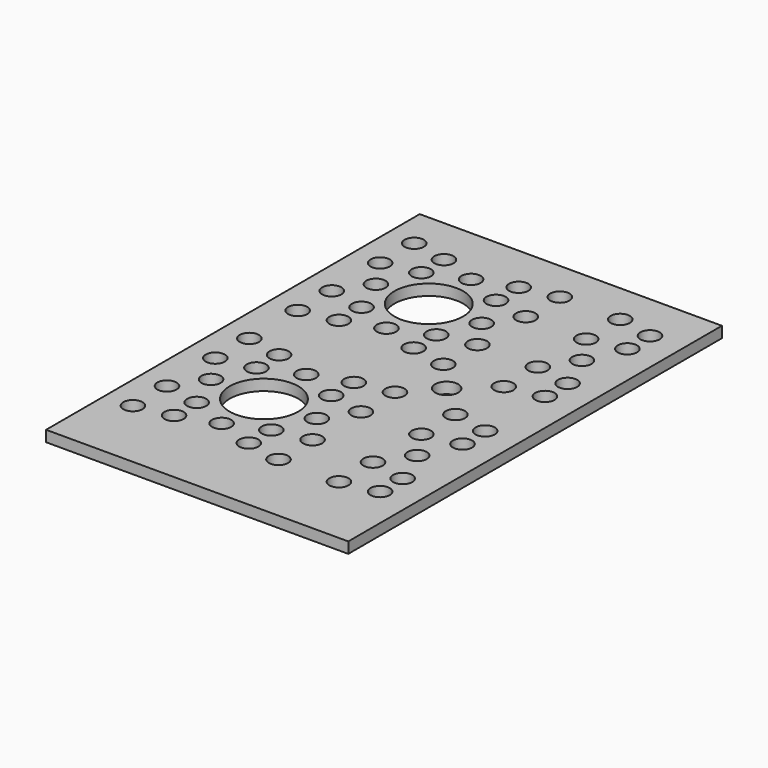
from build123d import *

# Parameters (mm, degrees)
F0_W     = 55.88
F0_H     = 86.36
F0_R     = 1.778
F0_R_2   = 6.35
F0_R_3   = 2.130313
F1_DEPTH = 2.032


with BuildPart() as f1:
    # F0 (on Top) → F1 (new body)
    with BuildSketch(Plane.XY):
        with Locations((27.94, 43.18)):
            Rectangle(F0_W, F0_H)
        with Locations((5.08, 13.716)):
            Circle(F0_R, mode=Mode.SUBTRACT)
        with Locations((11.6332, 15.0368)):
            Circle(F0_R, mode=Mode.SUBTRACT)
        with Locations((11.6332, 20.2692)):
            Circle(F0_R, mode=Mode.SUBTRACT)
        with Locations((18.542, 17.399)):
            Circle(F0_R, mode=Mode.SUBTRACT)
        with Locations((25.4508, 15.0368)):
            Circle(F0_R, mode=Mode.SUBTRACT)
        with Locations((25.4508, 20.2692)):
            Circle(F0_R, mode=Mode.SUBTRACT)
        with Locations((5.08, 21.59)):
            Circle(F0_R, mode=Mode.SUBTRACT)
        with Locations((8.763, 27.178)):
            Circle(F0_R, mode=Mode.SUBTRACT)
        with Locations((5.08, 32.766)):
            Circle(F0_R, mode=Mode.SUBTRACT)
        with Locations((5.08, 40.64)):
            Circle(F0_R, mode=Mode.SUBTRACT)
        with Locations((11.6332, 34.0868)):
            Circle(F0_R, mode=Mode.SUBTRACT)
        with Locations((11.6332, 39.3192)):
            Circle(F0_R, mode=Mode.SUBTRACT)
        with Locations((18.542, 27.178)):
            Circle(F0_R_2, mode=Mode.SUBTRACT)
        with Locations((18.542, 36.957)):
            Circle(F0_R, mode=Mode.SUBTRACT)
        with Locations((25.4508, 34.0868)):
            Circle(F0_R, mode=Mode.SUBTRACT)
        with Locations((25.4508, 39.3192)):
            Circle(F0_R, mode=Mode.SUBTRACT)
        with Locations((32.004, 13.716)):
            Circle(F0_R, mode=Mode.SUBTRACT)
        with Locations((43.18, 13.716)):
            Circle(F0_R, mode=Mode.SUBTRACT)
        with Locations((49.7332, 15.0368)):
            Circle(F0_R, mode=Mode.SUBTRACT)
        with Locations((49.7332, 20.2692)):
            Circle(F0_R, mode=Mode.SUBTRACT)
        with Locations((32.004, 21.59)):
            Circle(F0_R, mode=Mode.SUBTRACT)
        with Locations((28.321, 27.178)):
            Circle(F0_R, mode=Mode.SUBTRACT)
        with Locations((32.004, 32.766)):
            Circle(F0_R, mode=Mode.SUBTRACT)
        with Locations((32.004, 40.64)):
            Circle(F0_R, mode=Mode.SUBTRACT)
        with Locations((43.18, 21.59)):
            Circle(F0_R, mode=Mode.SUBTRACT)
        with Locations((46.863, 27.178)):
            Circle(F0_R, mode=Mode.SUBTRACT)
        with Locations((43.18, 32.766)):
            Circle(F0_R, mode=Mode.SUBTRACT)
        with Locations((43.18, 40.64)):
            Circle(F0_R, mode=Mode.SUBTRACT)
        with Locations((49.7332, 34.0868)):
            Circle(F0_R, mode=Mode.SUBTRACT)
        with Locations((49.7332, 39.3192)):
            Circle(F0_R, mode=Mode.SUBTRACT)
        with Locations((5.08, 51.816)):
            Circle(F0_R, mode=Mode.SUBTRACT)
        with Locations((11.6332, 53.1368)):
            Circle(F0_R, mode=Mode.SUBTRACT)
        with Locations((5.08, 59.69)):
            Circle(F0_R, mode=Mode.SUBTRACT)
        with Locations((11.6332, 58.3692)):
            Circle(F0_R, mode=Mode.SUBTRACT)
        with Locations((25.4508, 53.1368)):
            Circle(F0_R, mode=Mode.SUBTRACT)
        with Locations((18.542, 55.499)):
            Circle(F0_R, mode=Mode.SUBTRACT)
        with Locations((25.4508, 58.3692)):
            Circle(F0_R, mode=Mode.SUBTRACT)
        with Locations((5.08, 70.866)):
            Circle(F0_R, mode=Mode.SUBTRACT)
        with Locations((8.763, 65.278)):
            Circle(F0_R, mode=Mode.SUBTRACT)
        with Locations((11.6332, 72.1868)):
            Circle(F0_R, mode=Mode.SUBTRACT)
        with Locations((5.08, 78.74)):
            Circle(F0_R, mode=Mode.SUBTRACT)
        with Locations((11.6332, 77.4192)):
            Circle(F0_R, mode=Mode.SUBTRACT)
        with Locations((18.542, 65.278)):
            Circle(F0_R_2, mode=Mode.SUBTRACT)
        with Locations((18.542, 75.057)):
            Circle(F0_R, mode=Mode.SUBTRACT)
        with Locations((25.4508, 72.1868)):
            Circle(F0_R, mode=Mode.SUBTRACT)
        with Locations((25.4508, 77.4192)):
            Circle(F0_R, mode=Mode.SUBTRACT)
        with Locations((32.004, 51.816)):
            Circle(F0_R, mode=Mode.SUBTRACT)
        with Locations((37.084, 46.228)):
            Circle(F0_R_3, mode=Mode.SUBTRACT)
        with Locations((32.004, 59.69)):
            Circle(F0_R, mode=Mode.SUBTRACT)
        with Locations((43.18, 51.816)):
            Circle(F0_R, mode=Mode.SUBTRACT)
        with Locations((49.7332, 53.1368)):
            Circle(F0_R, mode=Mode.SUBTRACT)
        with Locations((43.18, 59.69)):
            Circle(F0_R, mode=Mode.SUBTRACT)
        with Locations((49.7332, 58.3692)):
            Circle(F0_R, mode=Mode.SUBTRACT)
        with Locations((28.321, 65.278)):
            Circle(F0_R, mode=Mode.SUBTRACT)
        with Locations((32.004, 70.866)):
            Circle(F0_R, mode=Mode.SUBTRACT)
        with Locations((32.004, 78.74)):
            Circle(F0_R, mode=Mode.SUBTRACT)
        with Locations((46.863, 65.278)):
            Circle(F0_R, mode=Mode.SUBTRACT)
        with Locations((43.18, 70.866)):
            Circle(F0_R, mode=Mode.SUBTRACT)
        with Locations((49.7332, 72.1868)):
            Circle(F0_R, mode=Mode.SUBTRACT)
        with Locations((43.18, 78.74)):
            Circle(F0_R, mode=Mode.SUBTRACT)
        with Locations((49.7332, 77.4192)):
            Circle(F0_R, mode=Mode.SUBTRACT)
    extrude(amount=F1_DEPTH)


solid = f1.part
